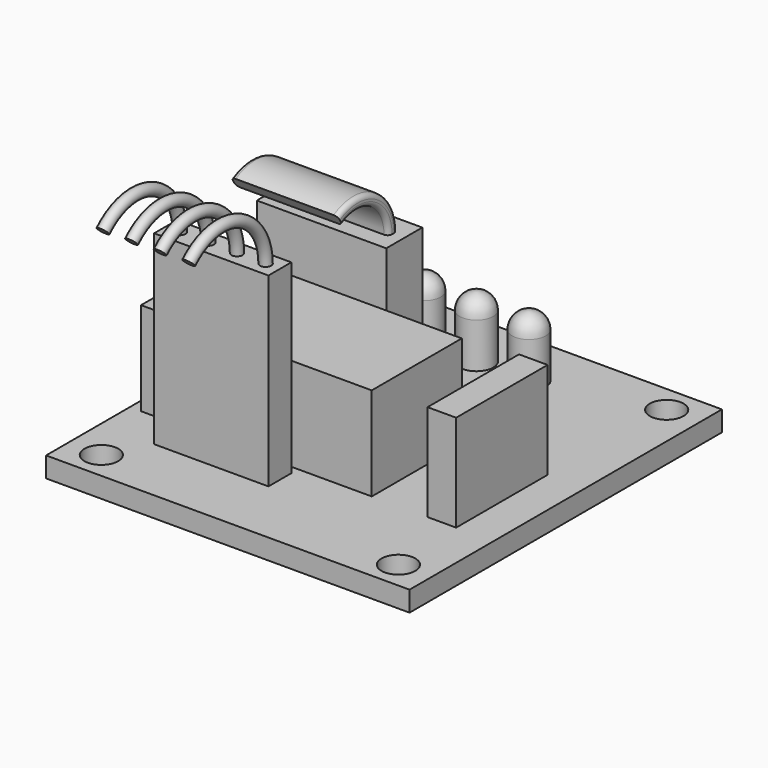
from build123d import *

# Parameters (mm, degrees)
SKETCH006_W             = 34.7
SKETCH006_H             = 32.3
SKETCH006_R             = 1.5
PAD004_DEPTH            = 1.8
SKETCH007_W             = 4
SKETCH007_H             = 11.5
PAD005_DEPTH            = 11.8
PAD006_DEPTH            = 9.5
FILLET_R                = 0.4
LINEARPATTERN_COUNT     = 4
LINEARPATTERN_PITCH     = 4.666667
SKETCH010_W             = 10
SKETCH010_H             = 20.5
PAD007_DEPTH            = 8.3
SKETCH011_W             = 2.54
SKETCH011_H             = 2.54
PAD008_DEPTH            = 16.5
SKETCH012_R             = 0.5
LINEARPATTERN001_COUNT  = 4
LINEARPATTERN001_PITCH  = 2.54
SKETCH014_W             = 10.16
SKETCH014_H             = 2.54
PAD009_DEPTH            = 8.6
BODY002_PLACEMENT_ANGLE = 90


with BuildPart() as part:
    # Sketch006 → Pad004 (new body)
    with BuildSketch(Plane.XY):
        Rectangle(SKETCH006_W, SKETCH006_H)
        with Locations((14.9, 13.2)):
            Circle(SKETCH006_R, mode=Mode.SUBTRACT)
        with Locations((-14.9, 13.2)):
            Circle(SKETCH006_R, mode=Mode.SUBTRACT)
        with Locations((-14.9, -13.2)):
            Circle(SKETCH006_R, mode=Mode.SUBTRACT)
        with Locations((14.9, -13.2)):
            Circle(SKETCH006_R, mode=Mode.SUBTRACT)
    extrude(amount=PAD004_DEPTH)

    # Sketch007 (on Face10 of Pad004) → Pad005 (join)
    with BuildSketch(Plane.XY.offset(1.8)):
        with Locations((6, 8.75)):
            Rectangle(SKETCH007_W, SKETCH007_H)
    extrude(amount=PAD005_DEPTH)

    # Sketch008 (on Face13 of Pad005) → Pad006 (join)
    with BuildSketch(Plane.XZ.offset(-4)):
        with BuildLine():
            ThreePointArc((5.5, 13.6), (3.8, 16.544486), (0.4, 16.544486))
            Line((-0.1, 17.410512), (0.4, 16.544486))
            ThreePointArc((6.5, 13.6), (4.3, 17.410512), (-0.1, 17.410512))
            Line((5.5, 13.6), (6.5, 13.6))
        make_face()
    extrude(amount=-PAD006_DEPTH)

    # Fillet
    fillet_edges = [part.edges().sort_by_distance(p)[0] for p in [
        (3.8, 4, 16.544486),
        (4.3, 4, 17.410512),
        (3.8, 13.5, 16.544486),
        (4.3, 13.5, 17.410512),
    ]]
    fillet(fillet_edges, radius=FILLET_R)

    # Sketch009 → Revolution001 (revolve)
    with BuildSketch(Plane.XZ.offset(3)):
        with BuildLine():
            ThreePointArc((13.85, 5.8), (13.41066, 6.86066), (12.35, 7.3))
            Line((12.35, 1.8), (12.35, 7.3))
            Line((13.85, 1.8), (12.35, 1.8))
            Line((13.85, 5.8), (13.85, 1.8))
        make_face()
    revolution001 = revolve(axis=Axis((12.35, -3, 7.3), (0, 0, 1)))

    # LinearPattern: Revolution001 ×4
    with Locations(*[(0, i * LINEARPATTERN_PITCH, 0) for i in range(1, LINEARPATTERN_COUNT)]):
        add(revolution001)

    # Sketch010 (on Face15 of LinearPattern) → Pad007 (join)
    with BuildSketch(Plane.XY.offset(1.8)):
        with Locations((-3.05, 4.9)):
            Rectangle(SKETCH010_W, SKETCH010_H)
    extrude(amount=PAD007_DEPTH)

    # Sketch011 (on Face15 of Pad007) → Pad008 (join)
    with BuildSketch(Plane.XY.offset(1.8)):
        with Locations((-10.08, 10.08)):
            Rectangle(SKETCH011_W, SKETCH011_H)
    pad008 = extrude(amount=PAD008_DEPTH)

    # AdditivePipe: sweep along a path in Sketch013
    with BuildLine(Plane.XZ) as additivepipe_path:
        ThreePointArc((-10.08, 18.3), (-13.166583, 22.919398), (-18.615534, 21.835534))
    # Sketch012 (on Face42 of Pad008) → AdditivePipe (sweep)
    with BuildSketch(Plane.XY.offset(18.3)):
        with Locations((-10.08, 10.08)):
            Circle(SKETCH012_R)
    additivepipe = sweep(path=additivepipe_path.line)

    # LinearPattern001: Pad008, AdditivePipe ×4
    with Locations(*[(0, -i * LINEARPATTERN001_PITCH, 0) for i in range(1, LINEARPATTERN001_COUNT)]):
        add(pad008)
        add(additivepipe)

    # Sketch014 (on Face15 of LinearPattern001) → Pad009 (join)
    with BuildSketch(Plane.XY.offset(1.8)):
        with Locations((-2.97, -11.58)):
            Rectangle(SKETCH014_W, SKETCH014_H)
    extrude(amount=PAD009_DEPTH)


with BuildPart() as part_1:
    # Body002 placement: moved
    add(part.part.moved(Location((0, -50.15, -25.85))).rotate(Axis((0, -50.15, -25.85), (0, 0, 1)), BODY002_PLACEMENT_ANGLE))


solid = part_1.part
